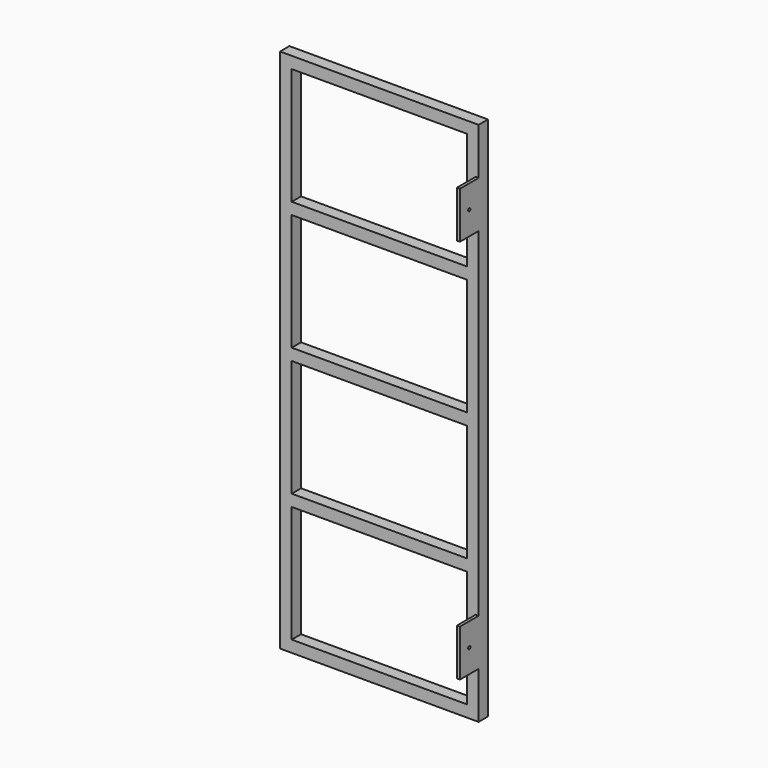
from build123d import *

# Parameters (mm, degrees)
F0_W     = 190.5
F0_H     = 127
F1_DEPTH = 12.7
F2_W     = 3.175
F2_H     = 50.8
F3_DEPTH = 25.4
F4_W     = 3.175
F4_H     = 50.8
F5_DEPTH = 25.4
F7_D     = 3.175


with BuildPart() as f1:
    # F0 (on Front) → F1 (new body)
    with BuildSketch(Plane.XZ):
        Polygon((0, 571.5), (0, 0), (215.9, 0), (215.9, 571.5), (203.2, 571.5), (12.7, 571.5), align=None)
        with Locations((107.95, 76.2)):
            Rectangle(F0_W, F0_H, mode=Mode.SUBTRACT)
        with Locations((107.95, 215.9)):
            Rectangle(F0_W, F0_H, mode=Mode.SUBTRACT)
        with Locations((107.95, 355.6)):
            Rectangle(F0_W, F0_H, mode=Mode.SUBTRACT)
        with Locations((107.95, 495.3)):
            Rectangle(F0_W, F0_H, mode=Mode.SUBTRACT)
    extrude(amount=F1_DEPTH)

    # F2 (on face) → F3 (join)
    with BuildSketch(Plane.XZ.offset(12.7)):
        with Locations((214.3125, 495.3)):
            Rectangle(F2_W, F2_H)
    extrude(amount=F3_DEPTH)

    # F4 (on face) → F5 (join)
    with BuildSketch(Plane.XZ.offset(12.7)):
        with Locations((214.3125, 76.2)):
            Rectangle(F4_W, F4_H)
    extrude(amount=F5_DEPTH)

    # F7 (through all)
    with Locations(Plane(origin=(212.725, 0, 0), x_dir=(0, -1, 0), z_dir=(-1, 0, 0))):
        with Locations((25.4, 495.3), (25.4, 76.2)):
            Hole(F7_D / 2)


solid = f1.part
